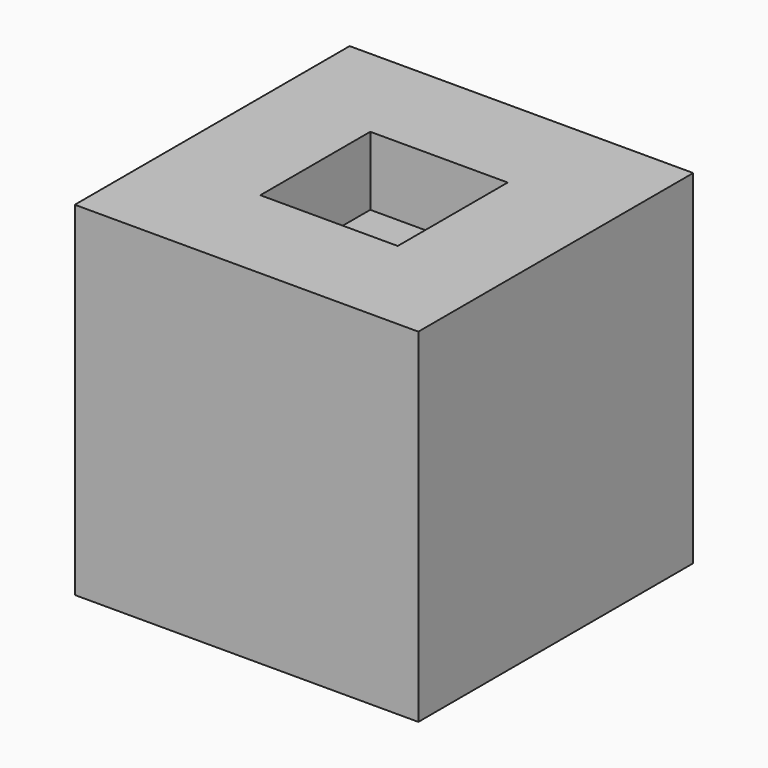
from build123d import *

# Parameters (mm, degrees)
F0_W     = 127
F0_H     = 127
F1_DEPTH = 63.5
F2_W     = 50.8
F2_H     = 50.8
F3_DEPTH = 25.4


with BuildPart() as f1:
    # F0 (on Front) → F1 (new body, symmetric)
    with BuildSketch(Plane.XZ):
        Rectangle(F0_W, F0_H)
    extrude(amount=F1_DEPTH, both=True)

    # F2 (on face) → F3 (cut)
    with BuildSketch(Plane.XY.offset(63.5)):
        Rectangle(F2_W, F2_H)
    extrude(amount=-F3_DEPTH, mode=Mode.SUBTRACT)


solid = f1.part
